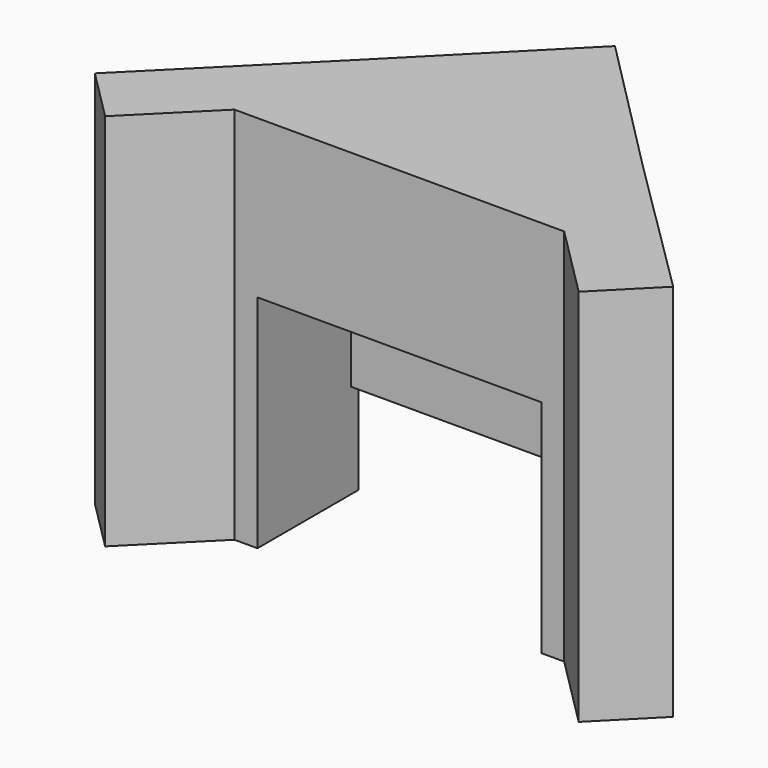
from build123d import *

# Parameters (mm, degrees)
F1_DEPTH = 15
F2_DEPTH = 60
F3_DEPTH = 35
F4_DEPTH = 15


with BuildPart() as f1:
    # F0 (on Top) → F1 (new body)
    with BuildSketch(Plane.XY):
        Polygon((-45.7041380099, -77.9803808107), (-37.5291732437, -86.155345577), (-26.1500704675, -74.7762428008), (-22.5, -74.7762428008), (-22.5, -56.2421455979), (-22.5, -54.7762428008), align=None)
    extrude(amount=F1_DEPTH)


with BuildPart() as f1b:
    # F0 (on Top) → F1, piece 2 (new body)
    with BuildSketch(Plane.XY):
        Polygon((26.0955594839, -74.7762428008), (37.5969056221, -86.277588939), (45.8779636159, -77.9177674474), (22.4999970904, -54.7600604596), (22.5005300594, -56.2421455979), (22.5071950618, -74.7762428008), align=None)
    extrude(amount=F1_DEPTH)


with BuildPart() as f2:
    # F0 (on Top) → F2 (new body)
    with BuildSketch(Plane.XY):
        Polygon((-45.7041380099, -77.9803808107), (-37.5291732437, -86.155345577), (-26.1500704675, -74.7762428008), (-22.5, -74.7762428008), (-22.5, -56.2421455979), (-22.5, -54.7762428008), align=None)
        Polygon((-22.5, -56.2421455979), (-22.5, -74.7762428008), (0, -74.7762428008), (-0.0066650023, -56.2421455979), align=None)
        Polygon((0, -74.7762428008), (22.5071950618, -74.7762428008), (22.5005300594, -56.2421455979), (-0.0066650023, -56.2421455979), align=None)
        Polygon((26.0955594839, -74.7762428008), (37.5969056221, -86.277588939), (45.8779636159, -77.9177674474), (22.4999970904, -54.7600604596), (22.5005300594, -56.2421455979), (22.5071950618, -74.7762428008), align=None)
        Polygon((-0.0071950608, -54.7681542171), (-22.5, -54.7762428008), (-22.5, -56.2421455979), (-0.0066650023, -56.2421455979), align=None)
        Polygon((22.5005300594, -56.2421455979), (22.4999970904, -54.7600604596), (-0.0071950608, -54.7681542171), (-0.0066650023, -56.2421455979), align=None)
        Polygon((-0.0153547065, -32.0777396508), (-22.5, -54.7762428008), (-0.0071950608, -54.7681542171), align=None)
        Polygon((-0.0071950608, -54.7681542171), (22.4999970904, -54.7600604596), (-0.0153547065, -32.0777396508), align=None)
    extrude(amount=F2_DEPTH)

    # F0 (on Top) → F3 (cut)
    with BuildSketch(Plane.XY):
        Polygon((-22.5, -56.2421455979), (-22.5, -74.7762428008), (0, -74.7762428008), (-0.0066650023, -56.2421455979), align=None)
        Polygon((0, -74.7762428008), (22.5071950618, -74.7762428008), (22.5005300594, -56.2421455979), (-0.0066650023, -56.2421455979), align=None)
    extrude(amount=F3_DEPTH, mode=Mode.SUBTRACT)

    # F0 (on Top) → F4 (cut)
    with BuildSketch(Plane.XY):
        Polygon((-0.0071950608, -54.7681542171), (-22.5, -54.7762428008), (-22.5, -56.2421455979), (-0.0066650023, -56.2421455979), align=None)
        Polygon((22.5005300594, -56.2421455979), (22.4999970904, -54.7600604596), (-0.0071950608, -54.7681542171), (-0.0066650023, -56.2421455979), align=None)
        Polygon((-0.0071950608, -54.7681542171), (22.4999970904, -54.7600604596), (-0.0153547065, -32.0777396508), align=None)
        Polygon((-0.0153547065, -32.0777396508), (-22.5, -54.7762428008), (-0.0071950608, -54.7681542171), align=None)
    extrude(amount=F4_DEPTH, mode=Mode.SUBTRACT)


solid = Compound([f1.part, f1b.part, f2.part])
